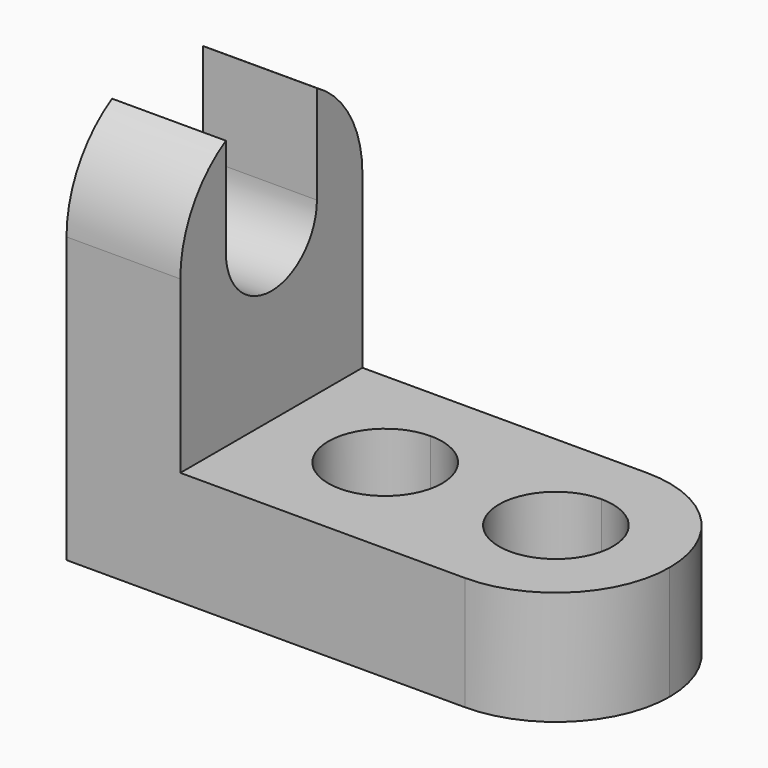
from build123d import *

# Parameters (mm, degrees)
F1_DEPTH = 25.4
F3_DEPTH = 12.701
F5_DEPTH = 12.701


with BuildPart() as f1:
    # F0 (on Front) → F1 (new body)
    with BuildSketch(Plane.XZ):
        Polygon((-34.6547834919, 44.45), (-34.6547834919, 0), (22.4952165081, 0), (22.4952165081, 12.7), (-21.9547834919, 12.7), (-21.9547834919, 44.45), align=None)
    extrude(amount=F1_DEPTH)

    # F2 (on face) → F3 (cut, through all)
    with BuildSketch(Plane.XY.offset(12.7)):
        with BuildLine():
            ThreePointArc((-2.9047834919, -12.7), (-4.7646554313, -8.2098719395), (-9.2547834919, -6.35))
            Line((-9.2547834919, -6.35), (-9.2547834919, -19.05))
            ThreePointArc((-9.2547834919, -19.05), (-4.7646554313, -17.1901280605), (-2.9047834919, -12.7))
        make_face()
        with BuildLine():
            Line((-9.2547834919, -19.05), (-9.2547834919, -6.35))
            ThreePointArc((-9.2547834919, -6.35), (-15.6047834919, -12.7), (-9.2547834919, -19.05))
        make_face()
        with BuildLine():
            Line((9.7952165081, -19.05), (9.7952165081, -6.35))
            ThreePointArc((9.7952165081, -6.35), (3.4452165081, -12.7), (9.7952165081, -19.05))
        make_face()
        with BuildLine():
            ThreePointArc((16.1452165081, -12.7), (14.2853445687, -8.2098719395), (9.7952165081, -6.35))
            Line((9.7952165081, -6.35), (9.7952165081, -19.05))
            ThreePointArc((9.7952165081, -19.05), (14.2853445687, -17.1901280605), (16.1452165081, -12.7))
        make_face()
        with BuildLine():
            Line((22.4952165081, 0), (9.7952165081, 0))
            ThreePointArc((9.7952165081, 0), (18.7754726014, -3.7197438511), (22.4952165081, -12.6999999213))
            Line((22.4952165081, -12.6999999213), (22.4952165081, 0))
        make_face()
        with BuildLine():
            Line((22.4952165081, -25.4), (22.4952165081, -12.6999999213))
            ThreePointArc((22.4952165081, -12.6999999213), (18.775472657, -21.6802560932), (9.7952165081, -25.4))
            Line((9.7952165081, -25.4), (22.4952165081, -25.4))
        make_face()
    extrude(amount=-F3_DEPTH, mode=Mode.SUBTRACT)

    # F4 (on face) → F5 (cut, through all)
    with BuildSketch(Plane.YZ.offset(-21.9547834919)):
        with BuildLine():
            Line((-19.05, 42.7485226281), (-19.05, 31.75))
            ThreePointArc((-19.05, 31.75), (-12.7, 38.1), (-6.35, 31.75))
            Line((-6.35, 31.75), (-6.35, 42.7485226281))
            ThreePointArc((-6.35, 42.7485226281), (-9.4129981272, 44.0172579939), (-12.7, 44.45))
            ThreePointArc((-12.7, 44.45), (-15.9870018728, 44.0172579939), (-19.05, 42.7485226281))
        make_face()
        with BuildLine():
            Line((-25.4, 44.45), (-25.4, 31.75))
            ThreePointArc((-25.4, 31.75), (-23.6985226281, 38.1), (-19.05, 42.7485226281))
            ThreePointArc((-19.05, 42.7485226281), (-15.9870018728, 44.0172579939), (-12.7, 44.45))
            Line((-12.7, 44.45), (-25.4, 44.45))
        make_face()
        with BuildLine():
            Line((0, 44.45), (-12.7, 44.45))
            ThreePointArc((-12.7, 44.45), (-9.4129981272, 44.0172579939), (-6.35, 42.7485226281))
            ThreePointArc((-6.35, 42.7485226281), (-1.7014773719, 38.1), (0, 31.75))
            Line((0, 31.75), (0, 44.45))
        make_face()
        with BuildLine():
            ThreePointArc((-6.35, 31.75), (-12.7, 38.1), (-19.05, 31.75))
            Line((-19.05, 31.75), (-6.35, 31.75))
        make_face()
        with BuildLine():
            Line((-6.35, 31.75), (-19.05, 31.75))
            ThreePointArc((-19.05, 31.75), (-12.7, 25.4), (-6.35, 31.75))
        make_face()
    extrude(amount=-F5_DEPTH, mode=Mode.SUBTRACT)


solid = f1.part
